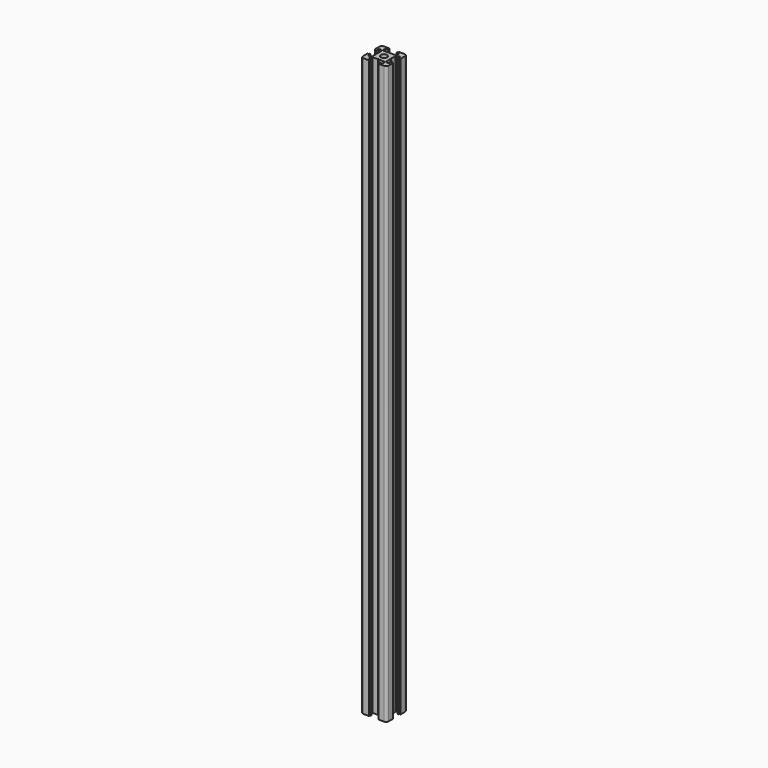
from build123d import *

# Parameters (mm, degrees)
F0_R     = 2.5
F1_DEPTH = 450


with BuildPart() as f1:
    # F0 (on Top) → F1 (new body)
    with BuildSketch(Plane.XY):
        with BuildLine():
            ThreePointArc((10, 8), (9.414214, 9.414214), (8, 10))
            Line((8, 10), (3.6, 10))
            Line((3.6, 10), (3.6, 9.1))
            Line((3.6, 9.1), (3.1, 9.1))
            Line((3.1, 9.1), (3.1, 8.2))
            Line((3.1, 8.2), (5.45, 8.2))
            Line((5.45, 8.2), (5.45, 6.298528))
            Line((5.45, 6.298528), (4.579818, 5.428346))
            Line((4.579818, 5.428346), (0.25, 5.428346))
            Line((0.25, 5.428346), (0, 4.928346))
            Line((0, 4.928346), (-0.25, 5.428346))
            Line((-0.25, 5.428346), (-4.579818, 5.428346))
            Line((-4.579818, 5.428346), (-5.45, 6.298528))
            Line((-5.45, 6.298528), (-5.45, 8.2))
            Line((-5.45, 8.2), (-3.1, 8.2))
            Line((-3.1, 8.2), (-3.1, 9.1))
            Line((-3.1, 9.1), (-3.6, 9.1))
            Line((-3.6, 9.1), (-3.6, 10))
            Line((-3.6, 10), (-8, 10))
            ThreePointArc((-8, 10), (-9.414214, 9.414214), (-10, 8))
            Line((-10, 8), (-10, 3.6))
            Line((-10, 3.6), (-9.1, 3.6))
            Line((-9.1, 3.6), (-9.1, 3.1))
            Line((-9.1, 3.1), (-8.2, 3.1))
            Line((-8.2, 3.1), (-8.2, 5.45))
            Line((-8.2, 5.45), (-6.298528, 5.45))
            Line((-6.298528, 5.45), (-5.428346, 4.579818))
            Line((-5.428346, 4.579818), (-5.428346, 0.25))
            Line((-5.428346, 0.25), (-4.928346, 0))
            Line((-4.928346, 0), (-5.428346, -0.25))
            Line((-5.428346, -0.25), (-5.428346, -4.579818))
            Line((-5.428346, -4.579818), (-6.298528, -5.45))
            Line((-6.298528, -5.45), (-8.2, -5.45))
            Line((-8.2, -5.45), (-8.2, -3.1))
            Line((-8.2, -3.1), (-9.1, -3.1))
            Line((-9.1, -3.1), (-9.1, -3.6))
            Line((-9.1, -3.6), (-10, -3.6))
            Line((-10, -3.6), (-10, -8))
            ThreePointArc((-10, -8), (-9.414214, -9.414214), (-8, -10))
            Line((-8, -10), (-3.6, -10))
            Line((-3.6, -10), (-3.6, -9.1))
            Line((-3.6, -9.1), (-3.1, -9.1))
            Line((-3.1, -9.1), (-3.1, -8.2))
            Line((-3.1, -8.2), (-5.45, -8.2))
            Line((-5.45, -8.2), (-5.45, -6.298528))
            Line((-5.45, -6.298528), (-4.579818, -5.428346))
            Line((-4.579818, -5.428346), (-0.25, -5.428346))
            Line((-0.25, -5.428346), (0, -4.928346))
            Line((0, -4.928346), (0.25, -5.428346))
            Line((0.25, -5.428346), (4.579818, -5.428346))
            Line((4.579818, -5.428346), (5.45, -6.298528))
            Line((5.45, -6.298528), (5.45, -8.2))
            Line((5.45, -8.2), (3.1, -8.2))
            Line((3.1, -8.2), (3.1, -9.1))
            Line((3.1, -9.1), (3.6, -9.1))
            Line((3.6, -9.1), (3.6, -10))
            Line((3.6, -10), (8, -10))
            ThreePointArc((8, -10), (9.414214, -9.414214), (10, -8))
            Line((10, -8), (10, -3.6))
            Line((10, -3.6), (9.1, -3.6))
            Line((9.1, -3.6), (9.1, -3.1))
            Line((9.1, -3.1), (8.2, -3.1))
            Line((8.2, -3.1), (8.2, -5.45))
            Line((8.2, -5.45), (6.298528, -5.45))
            Line((6.298528, -5.45), (5.428346, -4.579818))
            Line((5.428346, -4.579818), (5.428346, -0.25))
            Line((5.428346, -0.25), (4.928346, 0))
            Line((4.928346, 0), (5.428346, 0.25))
            Line((5.428346, 0.25), (5.428346, 4.579818))
            Line((5.428346, 4.579818), (6.298528, 5.45))
            Line((6.298528, 5.45), (8.2, 5.45))
            Line((8.2, 5.45), (8.2, 3.1))
            Line((8.2, 3.1), (9.1, 3.1))
            Line((9.1, 3.1), (9.1, 3.6))
            Line((9.1, 3.6), (10, 3.6))
            Line((10, 3.6), (10, 8))
        make_face()
        Circle(F0_R, mode=Mode.SUBTRACT)
    extrude(amount=F1_DEPTH)


solid = f1.part
